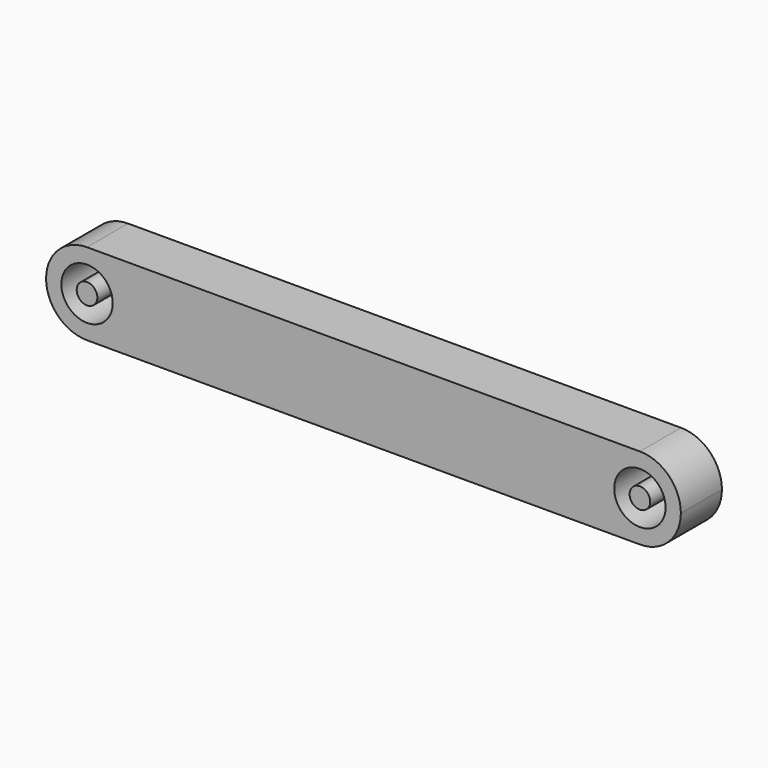
from build123d import *

# Parameters (mm, degrees)
F0_R     = 2.5019
F0_R_2   = 1.0033
F1_DEPTH = 5


with BuildPart() as f1:
    # F0 (on Front) → F1 (new body)
    with BuildSketch(Plane.XZ):
        with BuildLine():
            ThreePointArc((0, -3.9878), (2.8198, -2.8198), (3.9878, 0))
            ThreePointArc((3.9878, 0), (2.8198, 2.8198), (0, 3.9878))
            ThreePointArc((0, 3.9878), (-3.9878, 0), (0, -3.9878))
        make_face()
        Circle(F0_R, mode=Mode.SUBTRACT)
        with BuildLine():
            ThreePointArc((0, 3.9878), (2.8198, 2.8198), (3.9878, 0))
            ThreePointArc((3.9878, 0), (2.8198, -2.8198), (0, -3.9878))
            Line((0, -3.9878), (53.8434, -3.9878))
            ThreePointArc((53.8434, -3.9878), (49.8556, 0), (53.8434, 3.9878))
            Line((53.8434, 3.9878), (0, 3.9878))
        make_face()
        with BuildLine():
            ThreePointArc((57.8312, 0), (56.6632, 2.8198), (53.8434, 3.9878))
            ThreePointArc((53.8434, 3.9878), (49.8556, 0), (53.8434, -3.9878))
            ThreePointArc((53.8434, -3.9878), (56.6632, -2.8198), (57.8312, 0))
        make_face()
        with Locations((53.8434, 0)):
            Circle(F0_R, mode=Mode.SUBTRACT)
        with BuildLine():
            ThreePointArc((0, -3.9878), (2.8198, -2.8198), (3.9878, 0))
            ThreePointArc((3.9878, 0), (2.8198, 2.8198), (0, 3.9878))
            ThreePointArc((0, 3.9878), (-3.9878, 0), (0, -3.9878))
        make_face()
        Circle(F0_R, mode=Mode.SUBTRACT)
        with BuildLine():
            ThreePointArc((57.8312, 0), (56.6632, 2.8198), (53.8434, 3.9878))
            ThreePointArc((53.8434, 3.9878), (49.8556, 0), (53.8434, -3.9878))
            ThreePointArc((53.8434, -3.9878), (56.6632, -2.8198), (57.8312, 0))
        make_face()
        with Locations((53.8434, 0)):
            Circle(F0_R, mode=Mode.SUBTRACT)
        Circle(F0_R_2)
        with Locations((53.8434, 0)):
            Circle(F0_R_2)
    extrude(amount=F1_DEPTH)


solid = f1.part
